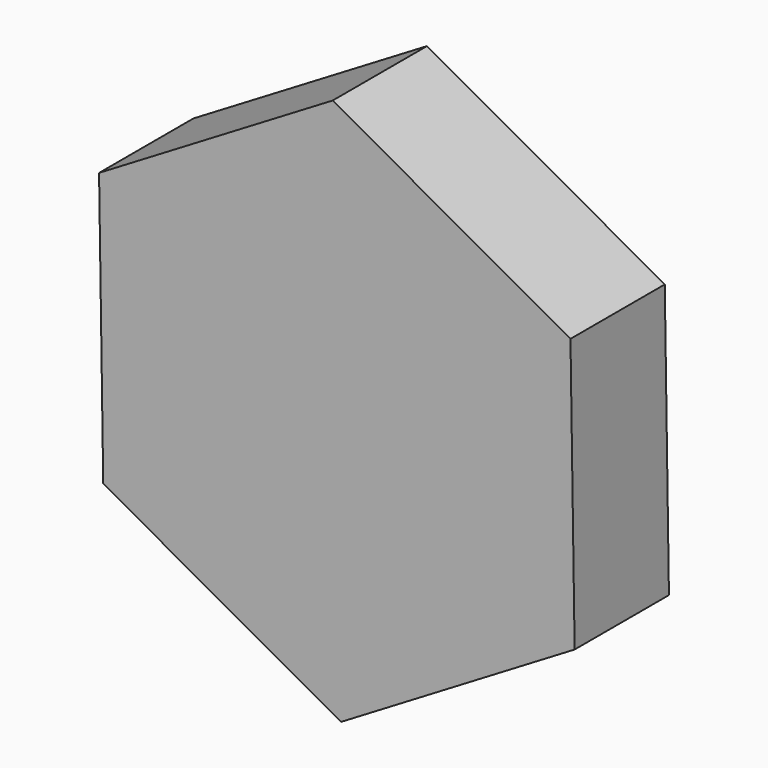
from build123d import *

# Parameters (mm, degrees)
F1_DEPTH = 76.2


with BuildPart() as f1:
    # F0 (on Front) → F1 (new body)
    with BuildSketch(Plane.XZ):
        with BuildLine():
            ThreePointArc((78.2107543947, -130.8007564848), (132.5614555023, -75.1879013879), (152.4, 0))
            ThreePointArc((152.4, 0), (152.395538702, 1.1660976456), (152.3821550693, 2.3321270194))
            ThreePointArc((152.3821550693, 2.3321270194), (130.8007545173, 78.2107576853), (74.171398516, 133.1328796435))
            ThreePointArc((74.171398516, 133.1328796435), (-2.33212623, 152.3821550814), (-78.2107596092, 130.8007533669))
            ThreePointArc((-78.2107596092, 130.8007533669), (-133.1328796511, 74.1713985025), (-152.3821551616, -2.3321209889))
            ThreePointArc((-152.3821551616, -2.3321209889), (-130.8007560649, -78.2107550971), (-74.171398516, -133.1328796435))
            ThreePointArc((-74.171398516, -133.1328796435), (2.3321231926, -152.3821551279), (78.2107543947, -130.8007564848))
        make_face()
        with BuildLine():
            ThreePointArc((-78.2107596092, 130.8007533669), (-2.33212623, 152.3821550814), (74.171398516, 133.1328796435))
            Line((74.171398516, 133.1328796435), (-2.6929062629, 175.9557565295))
            Line((-2.6929062629, 175.9557565295), (-78.2107596092, 130.8007533669))
        make_face()
        with BuildLine():
            ThreePointArc((-152.3821551616, -2.3321209889), (-133.1328796511, 74.1713985025), (-78.2107596092, 130.8007533669))
            Line((-78.2107596092, 130.8007533669), (-153.7286082281, 85.645753031))
            Line((-153.7286082281, 85.645753031), (-152.3821551616, -2.3321209889))
        make_face()
        with BuildLine():
            Line((-151.0357019652, -90.3100034984), (-74.171398516, -133.1328796435))
            ThreePointArc((-74.171398516, -133.1328796435), (-130.8007560649, -78.2107550971), (-152.3821551616, -2.3321209889))
            Line((-152.3821551616, -2.3321209889), (-151.0357019652, -90.3100034984))
        make_face()
        with BuildLine():
            Line((2.6929062629, -175.9557565295), (78.2107543947, -130.8007564848))
            ThreePointArc((78.2107543947, -130.8007564848), (2.3321231926, -152.3821551279), (-74.171398516, -133.1328796435))
            Line((-74.171398516, -133.1328796435), (2.6929062629, -175.9557565295))
        make_face()
        with BuildLine():
            ThreePointArc((152.3821550693, 2.3321270194), (152.395538702, 1.1660976456), (152.4, 0))
            ThreePointArc((152.4, 0), (132.5614555023, -75.1879013879), (78.2107543947, -130.8007564848))
            Line((78.2107543947, -130.8007564848), (153.7286082281, -85.645753031))
            Line((153.7286082281, -85.645753031), (152.3821550693, 2.3321270194))
        make_face()
        with BuildLine():
            ThreePointArc((74.171398516, 133.1328796435), (130.8007545173, 78.2107576853), (152.3821550693, 2.3321270194))
            Line((152.3821550693, 2.3321270194), (151.0357019652, 90.3100034984))
            Line((151.0357019652, 90.3100034984), (74.171398516, 133.1328796435))
        make_face()
    extrude(amount=F1_DEPTH)


solid = f1.part
